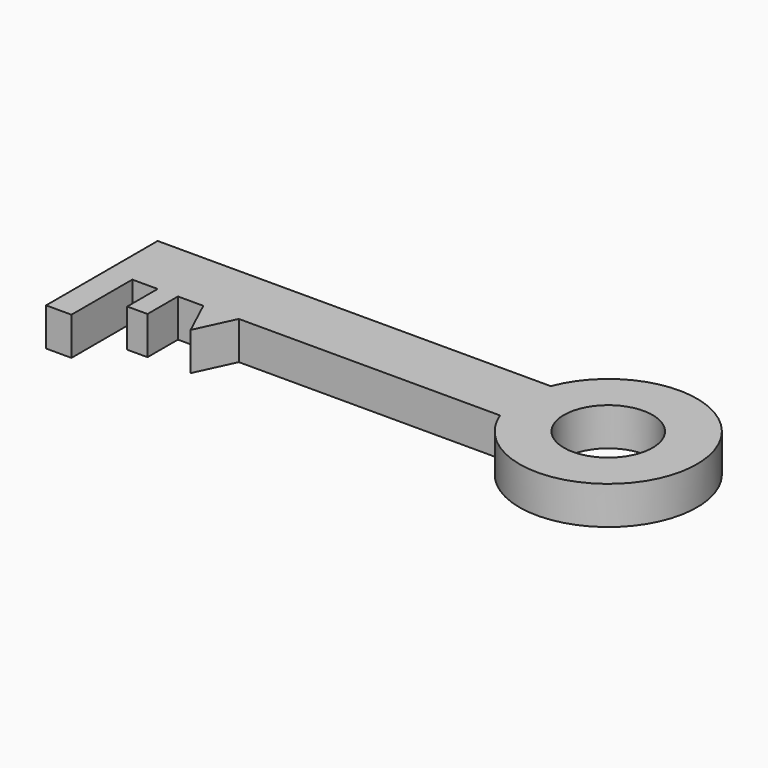
from build123d import *

# Parameters (mm, degrees)
F0_W     = 10
F0_H     = 30
F1_DEPTH = 15


with BuildPart() as f1:
    # F0 (on Top) → F1 (new body)
    with BuildSketch(Plane.XY):
        with BuildLine():
            Line((79.554444, 25), (-75.445556, 25))
            Line((-75.445556, 25), (-75.445556, 12.5))
            Line((-75.445556, 12.5), (-75.445556, 0))
            Line((-75.445556, 0), (-65.445556, 0))
            Line((-65.445556, 0), (-55.445556, 0))
            Line((-55.445556, 0), (-55.445556, -15))
            Line((-55.445556, -15), (-47.445556, -15))
            Line((-47.445556, -15), (-47.445556, 0))
            Line((-47.445556, 0), (-37.445556, 0))
            Line((-37.445556, 0), (-30.445556, -15))
            Line((-30.445556, -15), (-23.445556, 0))
            Line((-23.445556, 0), (79.554444, 0))
            ThreePointArc((79.554444, 0), (147.246186, 12.5), (79.554444, 25))
        make_face()
        with BuildLine():
            ThreePointArc((129.746186, 12.5), (112.246186, -5), (94.746186, 12.5))
            ThreePointArc((94.746186, 12.5), (112.246186, 30), (129.746186, 12.5))
        make_face(mode=Mode.SUBTRACT)
        with Locations((-70.445556, -15)):
            Rectangle(F0_W, F0_H)
    extrude(amount=F1_DEPTH)


solid = f1.part
